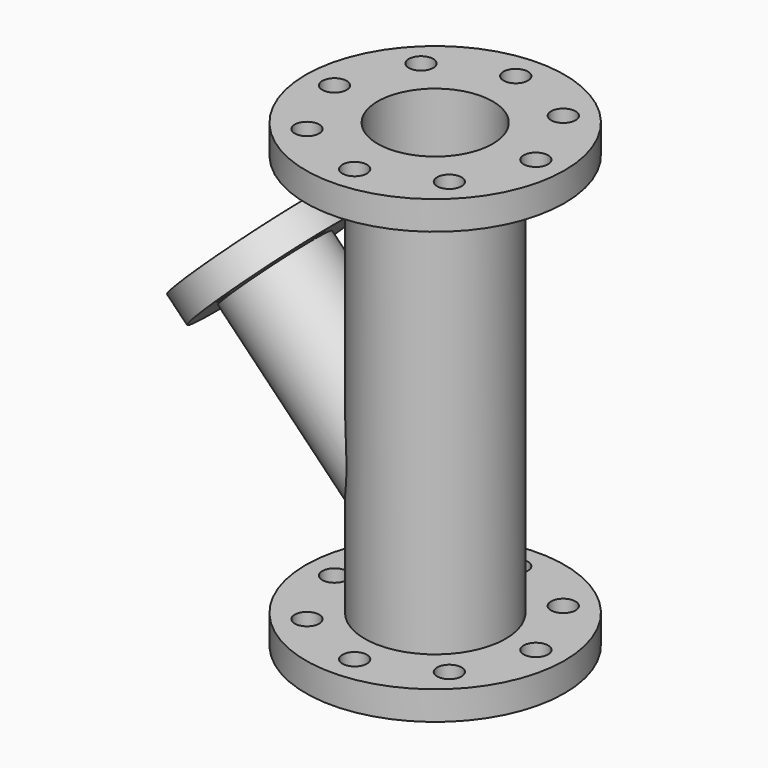
from build123d import *

# Parameters (mm, degrees)
F0_R      = 45
F1_DEPTH  = 10
F2_R      = 24.5
F2_R_2    = 20
F3_DEPTH  = 140
F4_R      = 20
F5_DEPTH  = 150.001
F6_R      = 45
F6_R_2    = 20
F7_DEPTH  = 10
F8_R      = 4.25
F9_DEPTH  = 160.001
F12_R     = 18.5
F13_DEPTH = 90
F14_R     = 28.5
F15_DEPTH = 10
F16_R     = 14
F17_DEPTH = 90
F18_R     = 2.25
F19_DEPTH = 12


with BuildPart() as f1:
    # F0 (on Top) → F1 (new body)
    with BuildSketch(Plane.XY):
        Circle(F0_R)
    extrude(amount=F1_DEPTH)

    # F2 (on face) → F3 (join)
    with BuildSketch(Plane.XY.offset(10)):
        Circle(F2_R)
        Circle(F2_R_2, mode=Mode.SUBTRACT)
    extrude(amount=F3_DEPTH)

    # F4 (on face) → F5 (cut, through all)
    with BuildSketch(Plane(origin=(0, 0, 0), x_dir=(1, 0, 0), z_dir=(0, 0, -1))):
        Circle(F4_R)
    extrude(amount=-F5_DEPTH, mode=Mode.SUBTRACT)

    # F6 (on face) → F7 (join)
    with BuildSketch(Plane.XY.offset(150)):
        Circle(F6_R)
        Circle(F6_R_2, mode=Mode.SUBTRACT)
    extrude(amount=F7_DEPTH)

    # F8 (on face) → F9 (cut, through all)
    with BuildSketch(Plane.XY.offset(160)):
        with Locations((0, 35)):
            Circle(F8_R)
        with Locations((0, -35)):
            Circle(F8_R)
        with Locations((35, 0)):
            Circle(F8_R)
        with Locations((-35, 0)):
            Circle(F8_R)
        with Locations((-24.733197, 24.764268)):
            Circle(F8_R)
        with Locations((24.733197, -24.764268)):
            Circle(F8_R)
        with Locations((-24.827064, -24.670162)):
            Circle(F8_R)
        with Locations((24.638896, 24.858094)):
            Circle(F8_R)
    extrude(amount=-F9_DEPTH, mode=Mode.SUBTRACT)

    # F12 (on face) → F13 (join)
    with BuildSketch(Plane(origin=(-82.744423, 0, 85.045383), x_dir=(0.716736, 0, 0.697344), z_dir=(-0.697344, 0, 0.716736))):
        with Locations((28.086591, 0)):
            Circle(F12_R)
    extrude(amount=-F13_DEPTH)

    # F14 (on face) → F15 (join)
    with BuildSketch(Plane(origin=(-82.744423, 0, 85.045383), x_dir=(0.716736, 0, 0.697344), z_dir=(-0.697344, 0, 0.716736))):
        with Locations((28.086591, 0)):
            Circle(F14_R)
    extrude(amount=-F15_DEPTH)

    # F16 (on face) → F17 (cut)
    with BuildSketch(Plane(origin=(-82.744423, 0, 85.045383), x_dir=(0.716736, 0, 0.697344), z_dir=(-0.697344, 0, 0.716736))):
        with Locations((28.086591, 0)):
            Circle(F16_R)
    extrude(amount=-F17_DEPTH, mode=Mode.SUBTRACT)

    # F18 (on face) → F19 (cut)
    with BuildSketch(Plane(origin=(-82.744423, 0, 85.045383), x_dir=(0.716736, 0, 0.697344), z_dir=(-0.697344, 0, 0.716736))):
        with Locations((26.669547, 21.451613)):
            Circle(F18_R)
        with Locations((6.909627, 0)):
            Circle(F18_R)
        with Locations((26.669547, -21.075269)):
            Circle(F18_R)
        with Locations((49.064126, 0)):
            Circle(F18_R)
    extrude(amount=-F19_DEPTH, mode=Mode.SUBTRACT)


solid = f1.part
